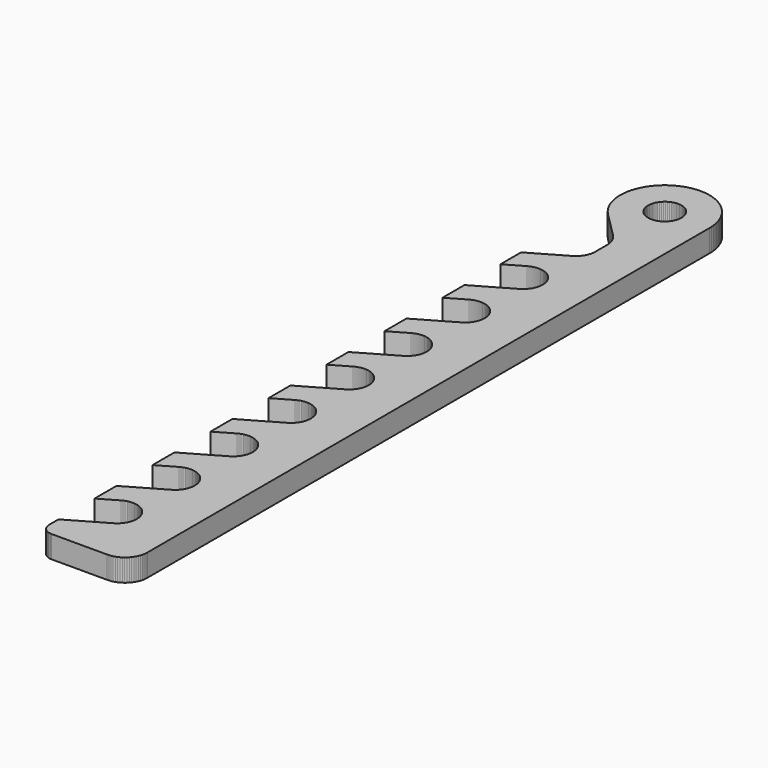
from build123d import *

# Parameters (mm, degrees)
F1_DEPTH = 12.7


with BuildPart() as f1:
    # F0 (on Top) → F1 (new body)
    with BuildSketch(Plane.XY):
        Polygon((-25.4, -211.6455), (-25.4, -212.725025), (-25.357684, -213.423525), (-25.230684, -214.143209), (-25.040158, -214.8205), (-24.765025, -215.476709), (-24.426342, -216.111684), (-24.024209, -216.683184), (-23.537367, -217.212342), (-23.008209, -217.678025), (-22.436709, -218.101367), (-21.801684, -218.440025), (-21.145525, -218.715184), (-20.468184, -218.905709), (-19.769684, -219.032709), (-19.05, -219.075025), (12.7, -219.075025), (13.758342, -219.032709), (14.795475, -218.905709), (15.811475, -218.694025), (16.827475, -218.376525), (17.801158, -217.995525), (18.753633, -217.551025), (19.642633, -217.000684), (20.5105, -216.386867), (21.293658, -215.709525), (22.034475, -214.968684), (22.732975, -214.164342), (23.325658, -213.317709), (23.875975, -212.407525), (24.320475, -211.476184), (24.722658, -210.502525), (25.018975, -209.4865), (25.230658, -208.4705), (25.357658, -207.412184), (25.4, -206.375025), (25.4, 193.675025), (25.357658, 195.156658), (25.230658, 196.638316), (25.018975, 198.119949), (24.7015, 199.5805), (24.320475, 201.019791), (23.854816, 202.416766), (23.283342, 203.813842), (22.6695, 205.147266), (21.949816, 206.459684), (21.166658, 207.729633), (20.298791, 208.936107), (19.367475, 210.100291), (18.372658, 211.222184), (17.314316, 212.259316), (16.192475, 213.233), (15.028316, 214.164291), (13.800658, 215.011), (12.530658, 215.772975), (11.218316, 216.471475), (9.863658, 217.085291), (8.466658, 217.614475), (7.0485, 218.080158), (5.609133, 218.44), (4.148658, 218.736266), (2.666975, 218.926791), (1.185316, 219.053816), (-0.296367, 219.075025), (-1.778025, 219.011449), (-3.259658, 218.863316), (-4.741367, 218.6305), (-6.180684, 218.312949), (-7.620025, 217.910842), (-9.038158, 217.423949), (-10.392867, 216.8525), (-11.747525, 216.196291), (-13.038709, 215.476607), (-14.2875, 214.672266), (-15.494025, 213.804449), (-16.658209, 212.851975), (-17.737684, 211.857107), (-18.774867, 210.777684), (-19.7485, 209.655766), (-20.658684, 208.4705), (-21.484184, 207.221633), (-22.246184, 205.951607), (-22.9235, 204.618107), (-23.516184, 203.2635), (-24.045342, 201.8665), (-24.489842, 200.448342), (-24.8285, 198.987791), (-25.103684, 197.527316), (-25.294184, 196.045658), (-25.378867, 194.563924), (-25.4, 193.082291), (-25.315342, 191.600633), (-25.146025, 190.118975), (-24.892025, 188.658449), (-24.553367, 187.197975), (-24.13, 185.779791), (-23.643184, 184.361633), (-23.050525, 183.006924), (-22.373184, 181.6735), (-21.632367, 180.382291), (-20.828025, 179.133449), (-19.939, 177.948158), (-18.986525, 176.805158), (-17.970525, 175.725633), (-3.725367, 161.4805), (-3.048, 160.739633), (-2.434184, 159.956475), (-1.862684, 159.130949), (-1.375842, 158.263133), (-0.973684, 157.352949), (-0.613842, 156.421633), (-0.359842, 155.469158), (-0.148184, 154.474316), (-0.042342, 153.500633), (0, 152.505766), (0, 144.187291), (-0.042342, 143.213633), (-0.169342, 142.261133), (-0.381025, 141.308658), (-0.677342, 140.398475), (-1.037184, 139.488316), (-1.481684, 138.641633), (-2.010867, 137.816158), (-2.6035, 137.054133), (-3.259658, 136.334449), (-3.979342, 135.678291), (-4.741367, 135.085658), (-5.545709, 134.577633), (-25.4, 123.105291), (-25.4, 108.436816), (-15.070709, 114.405816), (-14.224025, 114.850316), (-13.335025, 115.210133), (-12.403684, 115.506475), (-11.451209, 115.718133), (-10.498684, 115.845133), (-9.525, 115.887475), (-8.551342, 115.845133), (-7.598842, 115.718133), (-6.646367, 115.506475), (-5.715025, 115.210133), (-4.826025, 114.850316), (-3.958209, 114.405816), (-3.153867, 113.876658), (-2.391842, 113.283975), (-1.672158, 112.627816), (-1.016, 111.929316), (-0.423367, 111.146158), (0.105816, 110.341816), (0.550316, 109.473949), (0.910158, 108.584975), (1.206475, 107.653658), (1.418158, 106.701133), (1.545158, 105.748633), (1.5875, 104.774975), (1.545158, 103.801291), (1.418158, 102.848816), (1.206475, 101.896291), (0.910158, 100.986133), (0.550316, 100.076), (0.105816, 99.229316), (-0.423367, 98.403816), (-1.016, 97.641816), (-1.672158, 96.922133), (-2.391842, 96.265975), (-3.153867, 95.673291), (-3.958209, 95.144107), (-25.4, 82.782816), (-25.4, 67.161816), (-15.070709, 73.130816), (-14.224025, 73.575316), (-13.335025, 73.935133), (-12.403684, 74.231475), (-11.451209, 74.443133), (-10.498684, 74.570133), (-9.525, 74.612475), (-8.551342, 74.570133), (-7.598842, 74.443133), (-6.646367, 74.231475), (-5.715025, 73.935133), (-4.826025, 73.575316), (-3.958209, 73.130816), (-3.153867, 72.601658), (-2.391842, 72.008975), (-1.672158, 71.352816), (-1.016, 70.654316), (-0.423367, 69.871158), (0.105816, 69.066816), (0.550316, 68.198949), (0.910158, 67.309975), (1.206475, 66.378658), (1.418158, 65.426133), (1.545158, 64.473633), (1.5875, 63.499975), (1.545158, 62.526291), (1.418158, 61.573816), (1.206475, 60.621291), (0.910158, 59.711133), (0.550316, 58.801), (0.105816, 57.954316), (-0.423367, 57.128816), (-1.016, 56.366816), (-1.672158, 55.647133), (-2.391842, 54.990975), (-3.153867, 54.398291), (-3.958209, 53.869107), (-25.4, 41.507816), (-25.4, 25.886816), (-15.070709, 31.855816), (-14.224025, 32.300316), (-13.335025, 32.660133), (-12.403684, 32.956475), (-11.451209, 33.168133), (-10.498684, 33.295133), (-9.525, 33.337475), (-8.551342, 33.295133), (-7.598842, 33.168133), (-6.646367, 32.956475), (-5.715025, 32.660133), (-4.826025, 32.300316), (-3.958209, 31.855816), (-3.153867, 31.326658), (-2.391842, 30.733975), (-1.672158, 30.077816), (-1.016, 29.379316), (-0.423367, 28.596158), (0.105816, 27.791816), (0.550316, 26.923949), (0.910158, 26.034975), (1.206475, 25.103658), (1.418158, 24.151133), (1.545158, 23.198633), (1.5875, 22.224975), (1.545158, 21.251291), (1.418158, 20.298816), (1.206475, 19.346291), (0.910158, 18.436133), (0.550316, 17.526), (0.105816, 16.679316), (-0.423367, 15.853816), (-1.016, 15.091816), (-1.672158, 14.372133), (-2.391842, 13.715975), (-3.153867, 13.123291), (-3.958209, 12.594107), (-25.4, 0.232816), (-25.4, -15.388184), (-15.070709, -9.419184), (-14.224025, -8.974684), (-13.335025, -8.614867), (-12.403684, -8.318525), (-11.451209, -8.106867), (-10.498684, -7.979867), (-9.525, -7.937525), (-8.551342, -7.979867), (-7.598842, -8.106867), (-6.646367, -8.318525), (-5.715025, -8.614867), (-4.826025, -8.974684), (-3.958209, -9.419184), (-3.153867, -9.948342), (-2.391842, -10.541025), (-1.672158, -11.197184), (-1.016, -11.895684), (-0.423367, -12.678842), (0.105816, -13.483184), (0.550316, -14.351051), (0.910158, -15.240025), (1.206475, -16.171342), (1.418158, -17.123867), (1.545158, -18.076367), (1.5875, -19.050025), (1.545158, -20.023709), (1.418158, -20.976184), (1.206475, -21.928709), (0.910158, -22.838867), (0.550316, -23.749), (0.105816, -24.595684), (-0.423367, -25.421184), (-1.016, -26.183184), (-1.672158, -26.902867), (-2.391842, -27.559025), (-3.153867, -28.151709), (-3.958209, -28.680893), (-25.4, -41.042184), (-25.4, -56.663184), (-15.070709, -50.694184), (-14.224025, -50.249684), (-13.335025, -49.889867), (-12.403684, -49.593525), (-11.451209, -49.381867), (-10.498684, -49.254867), (-9.525, -49.212525), (-8.551342, -49.254867), (-7.598842, -49.381867), (-6.646367, -49.593525), (-5.715025, -49.889867), (-4.826025, -50.249684), (-3.958209, -50.694184), (-3.153867, -51.223342), (-2.391842, -51.816025), (-1.672158, -52.472184), (-1.016, -53.170684), (-0.423367, -53.953842), (0.105816, -54.758184), (0.550316, -55.626051), (0.910158, -56.515025), (1.206475, -57.446342), (1.418158, -58.398867), (1.545158, -59.351367), (1.5875, -60.325025), (1.545158, -61.298709), (1.418158, -62.251184), (1.206475, -63.203709), (0.910158, -64.113867), (0.550316, -65.024), (0.105816, -65.870684), (-0.423367, -66.696184), (-1.016, -67.458184), (-1.672158, -68.177867), (-2.391842, -68.834025), (-3.153867, -69.426709), (-3.958209, -69.955893), (-25.4, -82.317184), (-25.4, -97.938184), (-15.070709, -91.969184), (-14.224025, -91.524684), (-13.335025, -91.164867), (-12.403684, -90.868525), (-11.451209, -90.656867), (-10.498684, -90.529867), (-9.525, -90.487525), (-8.551342, -90.529867), (-7.598842, -90.656867), (-6.646367, -90.868525), (-5.715025, -91.164867), (-4.826025, -91.524684), (-3.958209, -91.969184), (-3.153867, -92.498342), (-2.391842, -93.091025), (-1.672158, -93.747184), (-1.016, -94.445684), (-0.423367, -95.228842), (0.105816, -96.033184), (0.550316, -96.901051), (0.910158, -97.790025), (1.206475, -98.721342), (1.418158, -99.673867), (1.545158, -100.626367), (1.5875, -101.600025), (1.545158, -102.573709), (1.418158, -103.526184), (1.206475, -104.478709), (0.910158, -105.388867), (0.550316, -106.299), (0.105816, -107.145684), (-0.423367, -107.971184), (-1.016, -108.733184), (-1.672158, -109.452867), (-2.391842, -110.109025), (-3.153867, -110.701709), (-3.958209, -111.230893), (-25.4, -123.592184), (-25.4, -139.213184), (-15.070709, -133.244184), (-14.224025, -132.799684), (-13.335025, -132.439867), (-12.403684, -132.143525), (-11.451209, -131.931867), (-10.498684, -131.804867), (-9.525, -131.762525), (-8.551342, -131.804867), (-7.598842, -131.931867), (-6.646367, -132.143525), (-5.715025, -132.439867), (-4.826025, -132.799684), (-3.958209, -133.244184), (-3.153867, -133.773342), (-2.391842, -134.366025), (-1.672158, -135.022184), (-1.016, -135.720684), (-0.423367, -136.503842), (0.105816, -137.308184), (0.550316, -138.176051), (0.910158, -139.065025), (1.206475, -139.996342), (1.418158, -140.948867), (1.545158, -141.901367), (1.5875, -142.875025), (1.545158, -143.848709), (1.418158, -144.801184), (1.206475, -145.753709), (0.910158, -146.663867), (0.550316, -147.574), (0.105816, -148.420684), (-0.423367, -149.246184), (-1.016, -150.008184), (-1.672158, -150.727867), (-2.391842, -151.384025), (-3.153867, -151.976709), (-3.958209, -152.505893), (-25.4, -164.867184), (-25.4, -180.488184), (-15.070709, -174.519184), (-14.224025, -174.074684), (-13.335025, -173.714867), (-12.403684, -173.418525), (-11.451209, -173.206867), (-10.498684, -173.079867), (-9.525, -173.037525), (-8.551342, -173.079867), (-7.598842, -173.206867), (-6.646367, -173.418525), (-5.715025, -173.714867), (-4.826025, -174.074684), (-3.958209, -174.519184), (-3.153867, -175.048342), (-2.391842, -175.641025), (-1.672158, -176.297184), (-1.016, -176.995684), (-0.423367, -177.778842), (0.105816, -178.583184), (0.550316, -179.451051), (0.910158, -180.340025), (1.206475, -181.271342), (1.418158, -182.223867), (1.545158, -183.176367), (1.5875, -184.150025), (1.545158, -185.123709), (1.418158, -186.076184), (1.206475, -187.028709), (0.910158, -187.938867), (0.550316, -188.849), (0.105816, -189.695684), (-0.423367, -190.521184), (-1.016, -191.283184), (-1.672158, -192.002867), (-2.391842, -192.659025), (-3.153867, -193.251709), (-3.958209, -193.780893), (-25.4, -206.142184), align=None)
        Polygon((0.889, 184.192291), (0, 184.150025), (-0.867867, 184.192291), (-1.756842, 184.319342), (-2.6035, 184.509766), (-3.450184, 184.784949), (-4.254525, 185.144791), (-5.016525, 185.589291), (-5.736184, 186.076158), (-6.413525, 186.647633), (-7.0485, 187.261449), (-7.598842, 187.938842), (-8.106842, 188.658449), (-8.530184, 189.441684), (-8.890025, 190.245949), (-9.165158, 191.071475), (-9.355684, 191.918107), (-9.482684, 192.807107), (-9.525, 193.675025), (-9.482684, 194.563924), (-9.355684, 195.431842), (-9.165158, 196.278475), (-8.890025, 197.125107), (-8.530184, 197.929449), (-8.106842, 198.6915), (-7.598842, 199.411107), (-7.0485, 200.0885), (-6.413525, 200.7235), (-5.736184, 201.273766), (-5.016525, 201.781842), (-4.254525, 202.205158), (-3.450184, 202.565), (-2.6035, 202.840184), (-1.756842, 203.030607), (-0.867867, 203.157633), (0, 203.200025), (0.889, 203.157633), (1.756816, 203.030607), (2.6035, 202.840184), (3.450133, 202.565), (4.254475, 202.205158), (5.016475, 201.781842), (5.736158, 201.273766), (6.413475, 200.7235), (7.0485, 200.0885), (7.598791, 199.411107), (8.106816, 198.6915), (8.530133, 197.929449), (8.889975, 197.125107), (9.165158, 196.278475), (9.355658, 195.431842), (9.482658, 194.563924), (9.525, 193.675025), (9.482658, 192.807107), (9.355658, 191.918107), (9.165158, 191.071475), (8.889975, 190.245949), (8.530133, 189.441684), (8.106816, 188.658449), (7.598791, 187.938842), (7.0485, 187.261449), (6.413475, 186.647633), (5.736158, 186.076158), (5.016475, 185.589291), (4.254475, 185.144791), (3.450133, 184.784949), (2.6035, 184.509766), (1.756816, 184.319342), align=None, mode=Mode.SUBTRACT)
    extrude(amount=F1_DEPTH)


solid = f1.part
